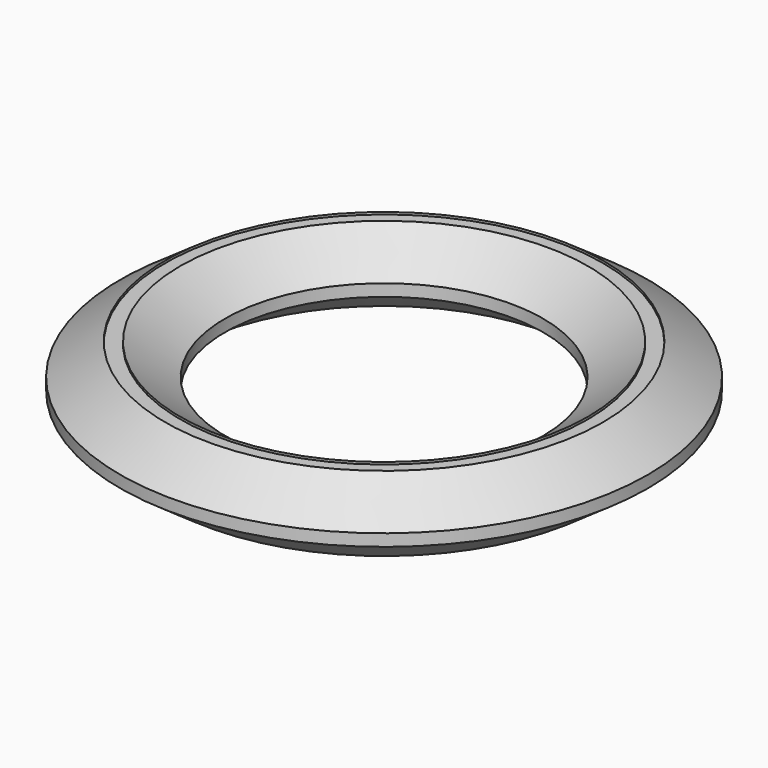
from build123d import *

# Parameters (mm, degrees)
F0_R       = 89.3972749213
F0_R_2     = 53.8372732699
F1_DEPTH   = 25.4
F2_SIZE2   = 10.6711628823
F2_SIZE    = 15.24
F2_2_SIZE2 = 10.6711628823
F2_2_SIZE  = 15.24
F3_DEPTH   = 0.762
F4_DEPTH   = 0.762


with BuildPart() as f1:
    # F0 (on Top) → F1 (new body)
    with BuildSketch(Plane.XY):
        Circle(F0_R)
        Circle(F0_R_2, mode=Mode.SUBTRACT)
    extrude(amount=F1_DEPTH)

    # F2
    f2_edges = [f1.edges().sort_by_distance(p)[0] for p in [
        (-89.397275, 0, 25.4),
        (-53.837273, 0, 25.4),
    ]]
    f2_side = f1.faces().sort_by_distance((-86.868738, 0, 25.4))[0]
    chamfer(f2_edges, length=F2_SIZE, length2=F2_SIZE2, reference=f2_side)

    # F2#2
    f2_2_edges = [f1.edges().sort_by_distance(p)[0] for p in [
        (-89.397275, 0, 0),
        (-53.837273, 0, 0),
    ]]
    f2_2_side = f1.faces().sort_by_distance((-86.868738, 0, 0))[0]
    chamfer(f2_2_edges, length=F2_2_SIZE, length2=F2_2_SIZE2, reference=f2_2_side)

    # F3 (cut): faces of the model
    f3_faces = [f1.faces().sort_by_distance(p)[0] for p in [
        (-72.0597904424, 0, 25.4),
        (-72.0597904424, 0, 0),
    ]]
    extrude(f3_faces, amount=-F3_DEPTH, dir=(0, 0, 1), mode=Mode.SUBTRACT)

    # F4 (cut): a face of the model
    f4_faces = [f1.faces().sort_by_distance(p)[0] for p in [
        (-72.0597904424, 0, 0),
    ]]
    extrude(f4_faces, amount=-F4_DEPTH, mode=Mode.SUBTRACT)


solid = f1.part
